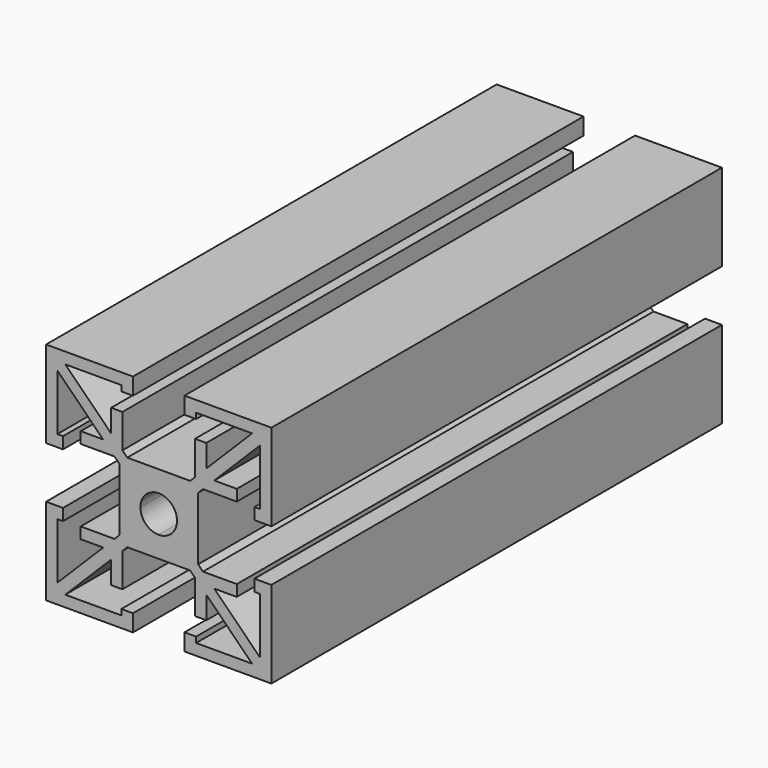
from build123d import *

# Parameters (mm, degrees)
F1_DEPTH = 100


with BuildPart() as f1:
    # F0 (on Front) → F1 (new body)
    with BuildSketch(Plane.XZ):
        with BuildLine():
            Line((0, 15.425), (0, 0))
            Line((0, 0), (15.425, 0))
            Line((15.425, 0), (15.425, 3))
            Line((15.425, 3), (13.36, 3))
            Line((13.36, 3), (13.36, 2))
            Line((13.36, 2), (3.414214, 2))
            Line((3.414214, 2), (11.553662, 10.139449))
            Line((11.553662, 10.139449), (11.553662, 6.139449))
            Line((11.553662, 6.139449), (13.553662, 6.139449))
            Line((13.553662, 6.139449), (13.553662, 12.139449))
            Line((13.553662, 12.139449), (14.414214, 13))
            Line((14.414214, 13), (20, 13))
            Line((20, 13), (20, 16.75))
            ThreePointArc((20, 16.75), (17.701903, 17.701903), (16.75, 20))
            Line((16.75, 20), (13, 20))
            Line((13, 20), (13, 14.414214))
            Line((13, 14.414214), (12.139449, 13.553662))
            Line((12.139449, 13.553662), (6.139449, 13.553662))
            Line((6.139449, 13.553662), (6.139449, 11.553662))
            Line((6.139449, 11.553662), (10.139449, 11.553662))
            Line((10.139449, 11.553662), (2, 3.414214))
            Line((2, 3.414214), (2, 13.36))
            Line((2, 13.36), (3, 13.36))
            Line((3, 13.36), (3, 15.425))
            Line((3, 15.425), (0, 15.425))
        make_face()
    extrude(amount=F1_DEPTH)

    # F2: F1 across face


with BuildPart() as f1_1:
    add(f1.part)
    add(f1.part.mirror(Plane(origin=(20, -50, 14.875), x_dir=(0, 1, 0), z_dir=(1, 0, 0))))

    # F3: F1 across face


with BuildPart() as f1_2:
    add(f1_1.part)
    add(f1_1.part.mirror(Plane(origin=(14.875, -50, 20), x_dir=(1, 0, 0), z_dir=(0, 0, 1))))


solid = f1_2.part
